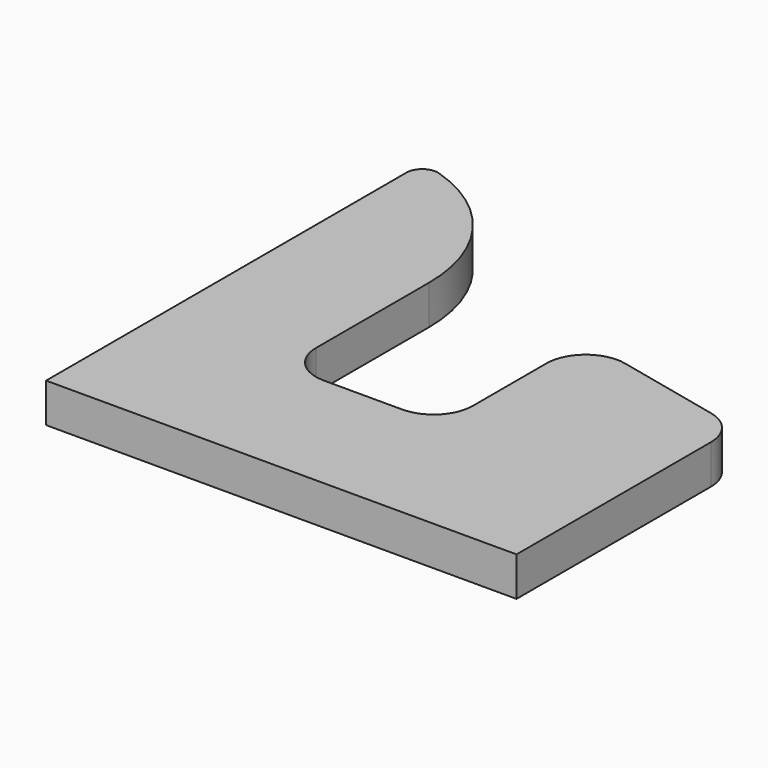
from build123d import *

# Parameters (mm, degrees)
F1_DEPTH = 6.35


with BuildPart() as f1:
    # F0 (on Top) → F1 (new body)
    with BuildSketch(Plane.XY):
        with BuildLine():
            Line((-35.611351, -38.21987), (40.588649, -38.21987))
            Line((40.588649, -38.21987), (40.588649, 1.155555))
            ThreePointArc((40.588649, 1.155555), (39.199232, 5.119784), (35.639008, 7.349221))
            Line((35.639008, 7.349221), (18.609413, 11.199534))
            ThreePointArc((18.609413, 11.199534), (13.244825, 9.966452), (10.859053, 5.005868))
            Line((10.859053, 5.005868), (10.859053, -9.908146))
            ThreePointArc((10.859053, -9.908146), (8.999181, -14.398274), (4.509053, -16.258146))
            Line((4.509053, -16.258146), (-8.190947, -16.258146))
            ThreePointArc((-8.190947, -16.258146), (-12.681075, -14.398274), (-14.540947, -9.908146))
            Line((-14.540947, -9.908146), (-14.540947, 12.951854))
            ThreePointArc((-14.540947, 12.951854), (-19.458817, 27.973251), (-32.308063, 37.177854))
            ThreePointArc((-32.308063, 37.177854), (-34.573491, 36.803467), (-35.611351, 34.755254))
            Line((-35.611351, 34.755254), (-35.611351, -38.21987))
        make_face()
    extrude(amount=F1_DEPTH)


solid = f1.part
